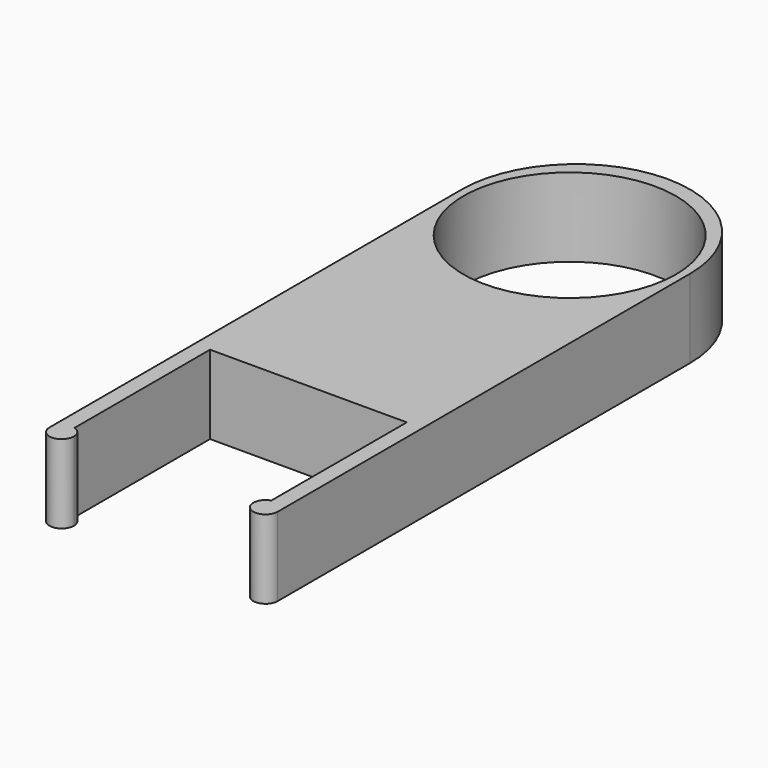
from build123d import *

# Parameters (mm, degrees)
F2_DEPTH = 10
F1_R     = 13.5
F3_DEPTH = 10


with BuildPart() as f2:
    # F0 (on Top) → F2 (new body)
    with BuildSketch(Plane.XY):
        Polygon((-12.5, 0), (12.5, 0), (14.5, 0), (14.5, 28), (0, 28), (-14.5, 28), (-14.5, 0), align=None)
        with BuildLine():
            Line((14.5, 0), (12.5, 0))
            Line((12.5, 0), (12.5, -21.5167603026))
            ThreePointArc((12.5, -21.5167603026), (13.8733092656, -21.7550100402), (14.5, -23))
            Line((14.5, -23), (14.5, 0))
        make_face()
        with BuildLine():
            ThreePointArc((14.5, -23), (13.8733092656, -21.7550100402), (12.5, -21.5167603026))
            Line((12.5, -21.5167603026), (12.5, -23))
            Line((12.5, -23), (14.5, -23))
        make_face()
        with BuildLine():
            Line((12.5, -23), (12.5, -21.5167603026))
            ThreePointArc((12.5, -21.5167603026), (12.0266907344, -24.2449899598), (14.5, -23))
            Line((14.5, -23), (12.5, -23))
        make_face()
        with BuildLine():
            Line((-12.5, -21.5167603026), (-12.5, 0))
            Line((-12.5, 0), (-14.5, 0))
            Line((-14.5, 0), (-14.5, -23))
            ThreePointArc((-14.5, -23), (-13.8733092656, -21.7550100402), (-12.5, -21.5167603026))
        make_face()
        with BuildLine():
            Line((0, 28), (14.5, 28))
            Line((14.5, 28), (14.5, 42.5))
            ThreePointArc((14.5, 42.5), (10.2530483272, 32.2469516728), (0, 28))
        make_face()
        with BuildLine():
            ThreePointArc((-11.4, -23), (-11.7050100402, -22.0766907344), (-12.5, -21.5167603026))
            Line((-12.5, -21.5167603026), (-12.5, -23))
            Line((-12.5, -23), (-14.5, -23))
            ThreePointArc((-14.5, -23), (-12.95, -24.55), (-11.4, -23))
        make_face()
        with BuildLine():
            Line((-12.5, -23), (-12.5, -21.5167603026))
            ThreePointArc((-12.5, -21.5167603026), (-13.8733092656, -21.7550100402), (-14.5, -23))
            Line((-14.5, -23), (-12.5, -23))
        make_face()
        with BuildLine():
            Line((-14.5, 28), (0, 28))
            ThreePointArc((0, 28), (-10.2530483272, 32.2469516728), (-14.5, 42.5))
            Line((-14.5, 42.5), (-14.5, 28))
        make_face()
        with BuildLine():
            ThreePointArc((-14.5, 42.5), (-10.2530483272, 32.2469516728), (0, 28))
            ThreePointArc((0, 28), (10.2530483272, 32.2469516728), (14.5, 42.5))
            ThreePointArc((14.5, 42.5), (0, 57), (-14.5, 42.5))
        make_face()
    extrude(amount=F2_DEPTH)

    # F1 (on Top) → F3 (cut)
    with BuildSketch(Plane.XY):
        with Locations((0, 41.5)):
            Circle(F1_R)
    extrude(amount=F3_DEPTH, mode=Mode.SUBTRACT)


solid = f2.part
